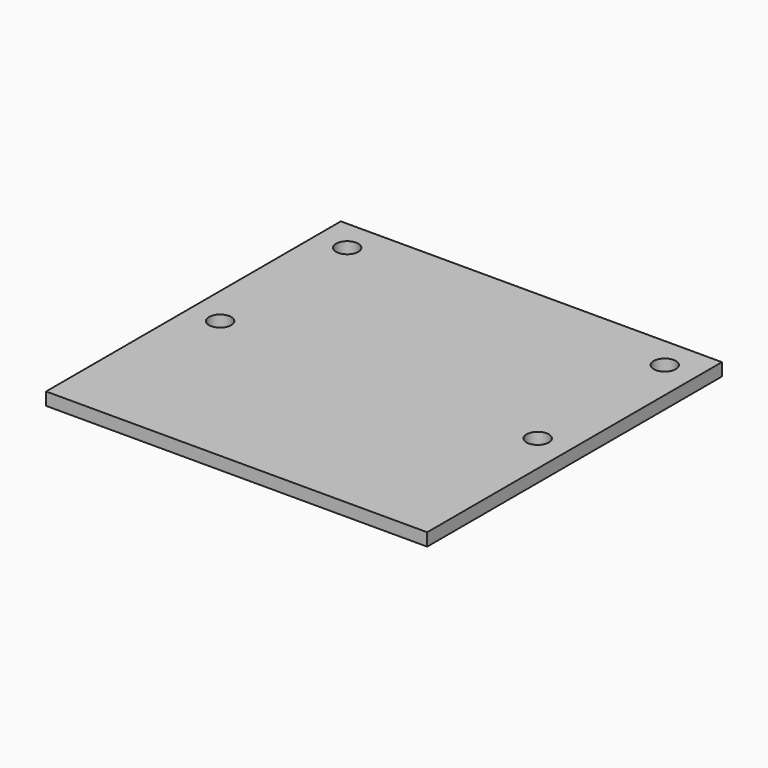
from build123d import *

# Parameters (mm, degrees)
F0_W     = 60
F0_H     = 58
F1_DEPTH = 2
F2_R     = 1.75
F3_DEPTH = 2.001


with BuildPart() as f1:
    # F0 (on Top) → F1 (new body)
    with BuildSketch(Plane.XY):
        with Locations((30, 29)):
            Rectangle(F0_W, F0_H)
    extrude(amount=F1_DEPTH)

    # F2 (on face) → F3 (cut, through all)
    with BuildSketch(Plane.XY.offset(2)):
        with Locations((5, 53)):
            Circle(F2_R)
        with Locations((5, 28)):
            Circle(F2_R)
        with Locations((55, 28)):
            Circle(F2_R)
        with Locations((55, 53)):
            Circle(F2_R)
    extrude(amount=-F3_DEPTH, mode=Mode.SUBTRACT)


solid = f1.part
